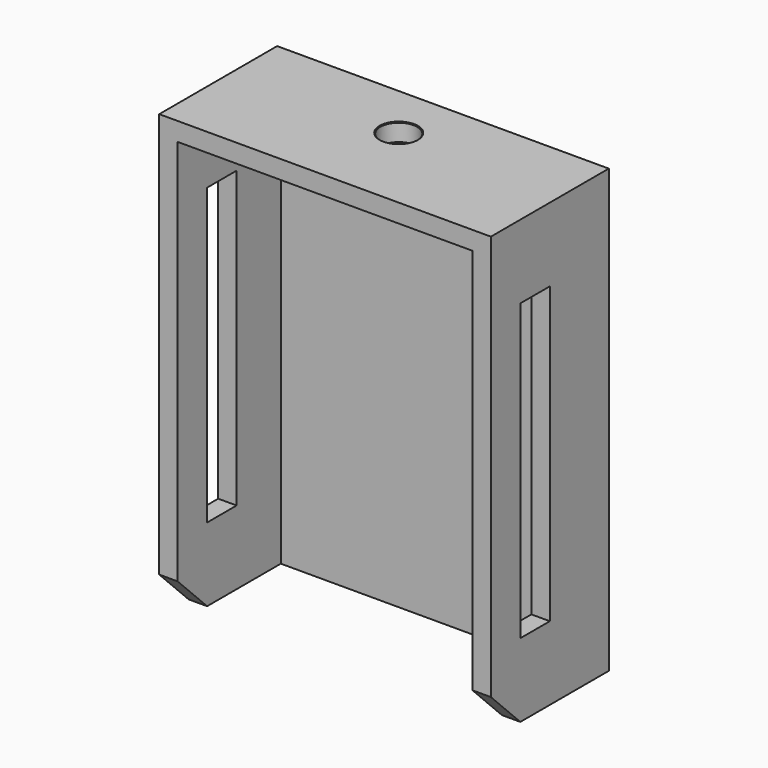
from build123d import *

# Parameters (mm, degrees)
F0_W     = 203.2
F0_H     = 304.8
F1_DEPTH = 6.35
F2_W     = 12.7
F2_H     = 304.8
F2_W_2   = 88.9
F2_W_3   = 25.4
F2_H_2   = 203.2
F3_DEPTH = 12.7
F4_W     = 88.9
F4_H     = 304.8
F4_W_2   = 25.4
F4_H_2   = 203.2
F4_W_3   = 12.7
F5_DEPTH = 12.7
F6_W     = 203.2
F6_H     = 88.9
F6_R     = 12.7
F7_DEPTH = 12.7
F8_SIZE  = 0.508
F9_SIZE  = 25.4


with BuildPart() as f1:
    # F0 (on Front) → F1 (new body, symmetric)
    with BuildSketch(Plane.XZ):
        Rectangle(F0_W, F0_H)
    extrude(amount=F1_DEPTH, both=True)

    # F2 (on face) → F3 (join)
    with BuildSketch(Plane.YZ.offset(101.6)):
        Rectangle(F2_W, F2_H)
        with Locations((-50.8, 0)):
            Rectangle(F2_W_2, F2_H)
        with Locations((-57.15, 0)):
            Rectangle(F2_W_3, F2_H_2, mode=Mode.SUBTRACT)
    extrude(amount=F3_DEPTH)

    # F4 (on face) → F5 (join)
    with BuildSketch(Plane(origin=(-101.6, 0, 0), x_dir=(0, -1, 0), z_dir=(-1, 0, 0))):
        with Locations((50.8, 0)):
            Rectangle(F4_W, F4_H)
        with Locations((57.15, 0)):
            Rectangle(F4_W_2, F4_H_2, mode=Mode.SUBTRACT)
        Rectangle(F4_W_3, F4_H)
    extrude(amount=F5_DEPTH)

    # F6 (on face) → F7 (join)
    with BuildSketch(Plane.XY.offset(152.4)):
        with Locations((0, -50.8)):
            Rectangle(F6_W, F6_H)
        with Locations((0, -31.75)):
            Circle(F6_R, mode=Mode.SUBTRACT)
    extrude(amount=-F7_DEPTH)

    # F8
    f8_edges = [f1.edges().sort_by_distance(p)[0] for p in [
        (-12.7, -31.75, 152.4),
        (-12.7, -31.75, 139.7),
    ]]
    chamfer(f8_edges, length=F8_SIZE)

    # F9
    f9_edges = [f1.edges().sort_by_distance(p)[0] for p in [
        (107.95, -95.25, -152.4),
        (-107.95, -95.25, -152.4),
    ]]
    chamfer(f9_edges, length=F9_SIZE)


solid = f1.part
